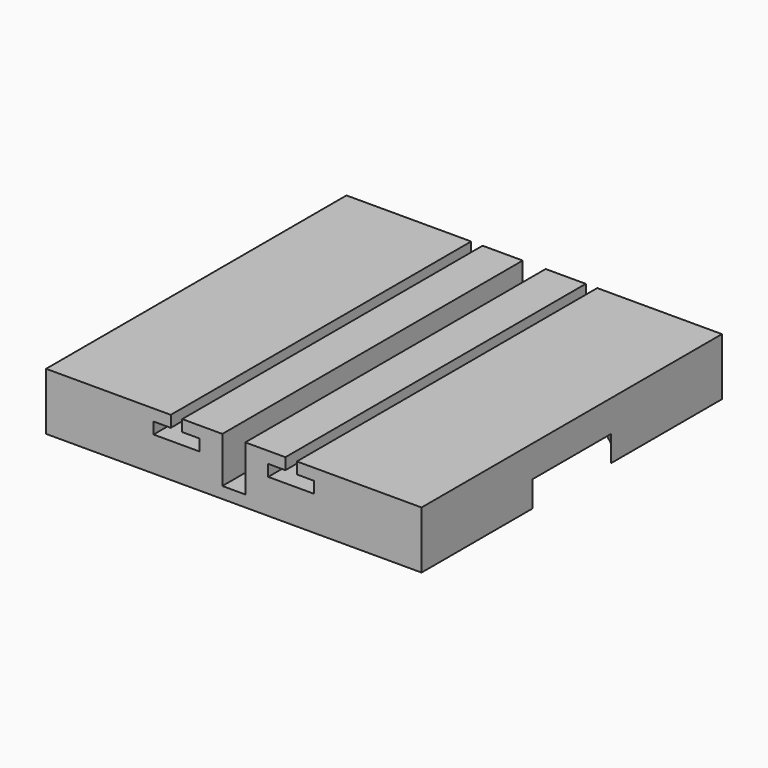
from build123d import *

# Parameters (mm, degrees)
SKETCH_W        = 65.5
SKETCH_H        = 65.5
PAD_DEPTH       = 10
POCKET_DEPTH    = 65.501
SKETCH002_W     = 4
SKETCH002_H     = 65.5
POCKET001_DEPTH = 8
SKETCH003_R     = 17.5
POCKET002_DEPTH = 4.5
SKETCH004_R     = 5
PAD001_DEPTH    = 4.5
SKETCH005_R     = 1
PAD002_DEPTH    = 2
CHAMFER_SIZE    = 0.5


with BuildPart() as part:
    # Sketch → Pad (new body)
    with BuildSketch(Plane.XY):
        Rectangle(SKETCH_W, SKETCH_H)
    extrude(amount=PAD_DEPTH)

    # Sketch001 (on Face3 of Pad) → Pocket (cut, through all)
    with BuildSketch(Plane.XZ.offset(32.75)):
        Polygon((-11.000005, 10), (-11.000005, 8), (-14.000005, 8), (-14.000005, 6), (-6.000005, 6), (-6.000005, 8), (-9.000005, 8), (-8.999995, 10), align=None)
        Polygon((8.999995, 10), (8.999995, 8), (5.999995, 8), (5.999995, 6), (13.999995, 6), (13.999995, 8), (10.999995, 8), (10.999995, 10), align=None)
    extrude(amount=-POCKET_DEPTH, mode=Mode.SUBTRACT)

    # Sketch002 (on Face12 of Pocket) → Pocket001 (cut)
    with BuildSketch(Plane.XY.offset(10)):
        Rectangle(SKETCH002_W, SKETCH002_H)
    extrude(amount=-POCKET001_DEPTH, mode=Mode.SUBTRACT)

    # Sketch003 (on Face2 of Pocket001) → Pocket002 (cut)
    with BuildSketch(Plane(origin=(0, 0, 0), x_dir=(1, 0, 0), z_dir=(0, 0, -1))):
        with Locations((17.5, 0)):
            Circle(SKETCH003_R)
    extrude(amount=-POCKET002_DEPTH, mode=Mode.SUBTRACT)

    # Sketch004 (on Face28 of Pocket002) → Pad001 (join)
    with BuildSketch(Plane(origin=(0, 0, 4.5), x_dir=(1, 0, 0), z_dir=(0, 0, -1))):
        with Locations((17.5, 0)):
            Circle(SKETCH004_R)
    extrude(amount=PAD001_DEPTH)

    # Sketch005 (on Face2 of Pad001) → Pad002 (join)
    with BuildSketch(Plane(origin=(0, 0, 0), x_dir=(1, 0, 0), z_dir=(0, 0, -1))):
        with Locations((-25, 25)):
            Circle(SKETCH005_R)
        with Locations((25, 25)):
            Circle(SKETCH005_R)
        with Locations((-25, -25)):
            Circle(SKETCH005_R)
        with Locations((25, -25)):
            Circle(SKETCH005_R)
    extrude(amount=PAD002_DEPTH)

    # Chamfer
    chamfer_edges = [part.edges().sort_by_distance(p)[0] for p in [
        (-26, -25, -2),
        (-26, 25, -2),
        (24, 25, -2),
        (24, -25, -2),
    ]]
    chamfer(chamfer_edges, length=CHAMFER_SIZE)


solid = part.part
